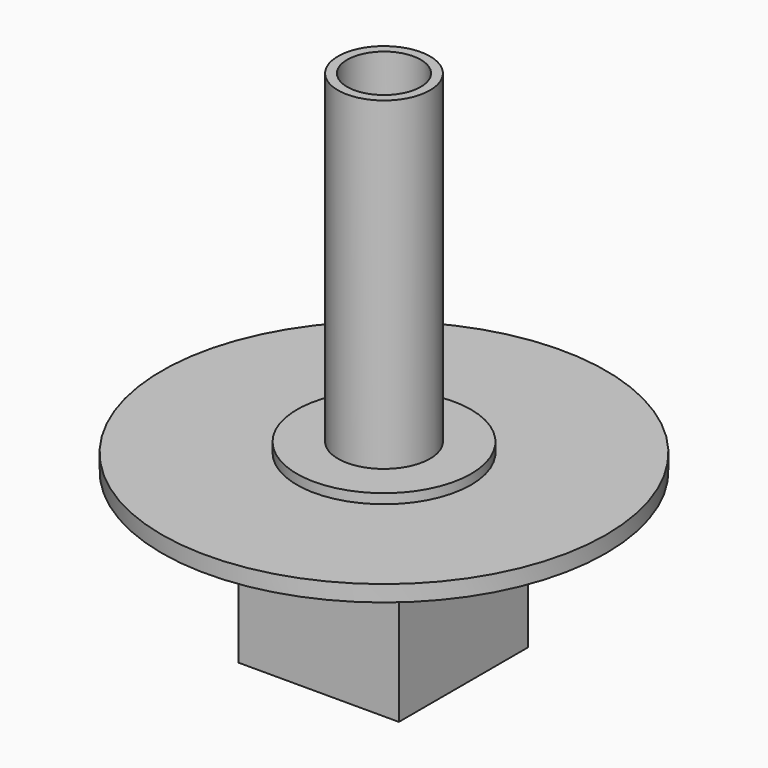
from build123d import *

# Parameters (mm, degrees)
F0_W      = 25.148775
F0_H      = 25.245873
F1_DEPTH  = 25.4
F2_R      = 5.468696
F3_DEPTH  = 12.7
F4_R      = 1.081195
F5_DEPTH  = 12.7
F6_R      = 34.788547
F7_DEPTH  = 2.54
F8_R      = 13.635781
F9_DEPTH  = 1.524
F10_R     = 7.209759
F10_R_2   = 5.762306
F11_DEPTH = 50.8


with BuildPart() as f1:
    # F0 (on Top) → F1 (new body)
    with BuildSketch(Plane.XY):
        with Locations((12.574388, 12.622936)):
            Rectangle(F0_W, F0_H)
    extrude(amount=F1_DEPTH)

    # F2 (on face) → F3 (join)
    with BuildSketch(Plane.XY.offset(25.4)):
        with Locations((12.720035, 12.622937)):
            Circle(F2_R)
    extrude(amount=F3_DEPTH)


with BuildPart() as f5:
    # F4 (on face) → F5 (new body)
    with BuildSketch(Plane.XY.offset(38.1)):
        with Locations((12.720035, 12.622937)):
            Circle(F4_R)
    extrude(amount=F5_DEPTH)


with BuildPart() as f7:
    # F6 (on face) → F7 (new body)
    with BuildSketch(Plane.XY.offset(25.4)):
        with Locations((12.720035, 12.622937)):
            Circle(F6_R)
    extrude(amount=F7_DEPTH)


with BuildPart() as f9:
    # F8 (on face) → F9 (new body)
    with BuildSketch(Plane.XY.offset(27.94)):
        with Locations((12.720035, 12.622937)):
            Circle(F8_R)
    extrude(amount=F9_DEPTH)


with BuildPart() as f11:
    # F10 (on face) → F11 (new body)
    with BuildSketch(Plane.XY.offset(29.464)):
        with Locations((12.720035, 12.622937)):
            Circle(F10_R)
        with Locations((12.720035, 12.622937)):
            Circle(F10_R_2, mode=Mode.SUBTRACT)
    extrude(amount=F11_DEPTH)


solid = Compound([f1.part, f5.part, f7.part, f9.part, f11.part])
